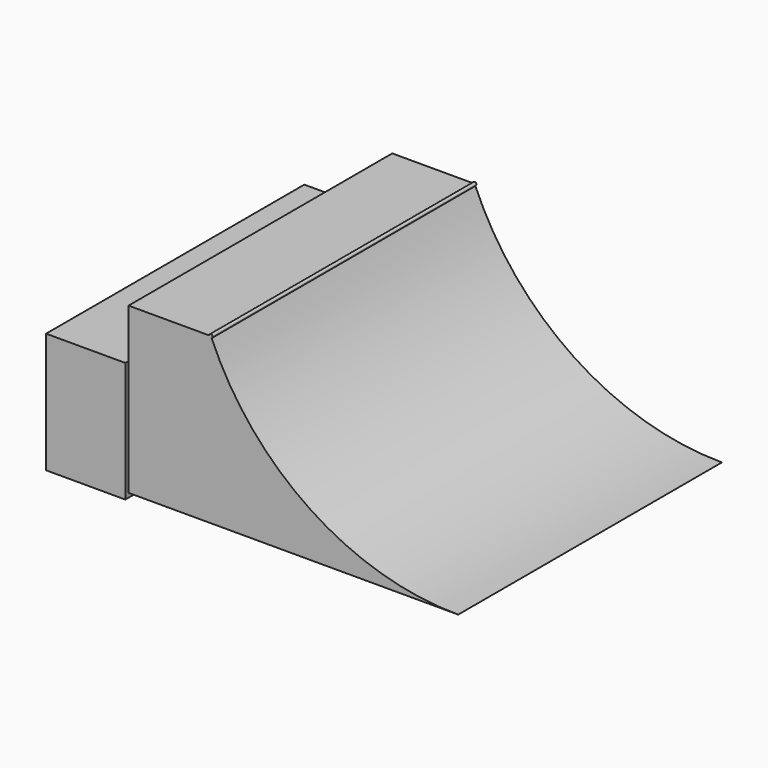
from build123d import *

# Parameters (mm, degrees)
F1_DEPTH = 1219.2
F2_W     = 585.834026
F2_H     = 2387.374982
F3_DEPTH = 889.8561


with BuildPart() as f1:
    # F0 (on Front) → F1 (new body, symmetric)
    with BuildSketch(Plane.XZ):
        with BuildLine():
            Line((-2438.4, 0), (0, 0))
            ThreePointArc((0, 0), (-1093.682865, 329.228078), (-1823.877836, 1207.492639))
            ThreePointArc((-1823.877836, 1207.492639), (-1835.827749, 1208.621685), (-1841.5, 1219.2))
            Line((-1841.5, 1219.2), (-2438.4, 1219.2))
            Line((-2438.4, 1219.2), (-2438.4, 0))
        make_face()
        with BuildLine():
            Line((-1828.8, 1219.2), (-1816.1, 1219.2))
            ThreePointArc((-1816.1, 1219.2), (-1828.8, 1231.9), (-1841.5, 1219.2))
            Line((-1841.5, 1219.2), (-1828.8, 1219.2))
        make_face()
        with BuildLine():
            ThreePointArc((-1841.5, 1219.2), (-1835.827749, 1208.621685), (-1823.877836, 1207.492639))
            ThreePointArc((-1823.877836, 1207.492639), (-1826.348299, 1213.342376), (-1828.8, 1219.2))
            Line((-1828.8, 1219.2), (-1841.5, 1219.2))
        make_face()
        with BuildLine():
            ThreePointArc((-1828.8, 1219.2), (-1826.348299, 1213.342376), (-1823.877836, 1207.492639))
            ThreePointArc((-1823.877836, 1207.492639), (-1818.221685, 1212.172251), (-1816.1, 1219.2))
            Line((-1816.1, 1219.2), (-1828.8, 1219.2))
        make_face()
    extrude(amount=F1_DEPTH, both=True)


with BuildPart() as f3:
    # F2 (on face) → F3 (new body)
    with BuildSketch(Plane.XY.offset(1219.2)):
        with Locations((-3187.211752, -25.512509)):
            Rectangle(F2_W, F2_H)
    extrude(amount=-F3_DEPTH)


with BuildPart() as f3_1:
    # F4: moved
    add(f3.part.moved(Location((431.8, 0, -381))))


solid = Compound([f1.part, f3_1.part])
